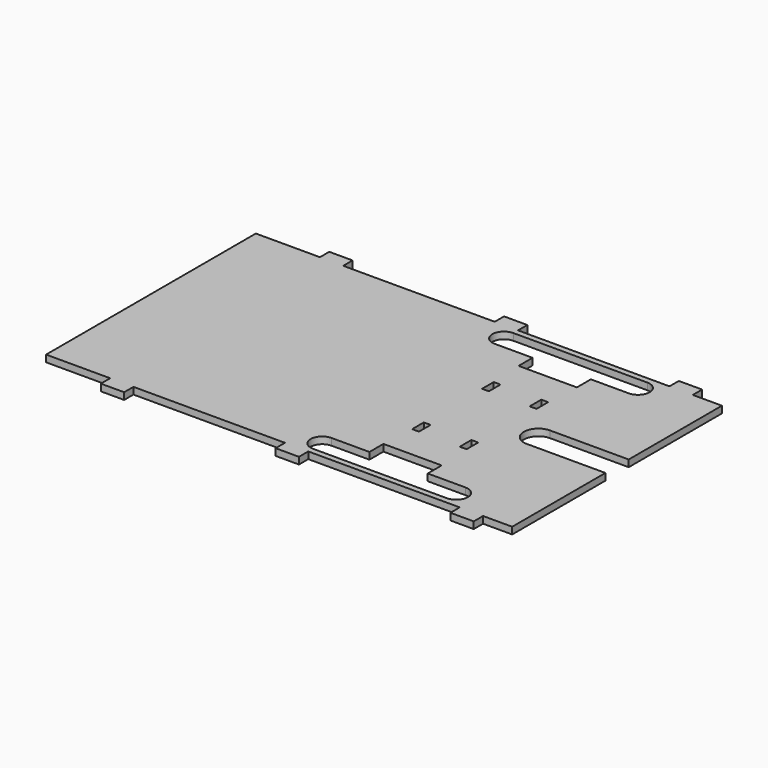
from build123d import *

# Parameters (mm, degrees)
F0_W     = 10.16
F0_H     = 5.08
F1_DEPTH = 2.9718
F2_W     = 12.7
F2_H     = 7.62
F2_W_2   = 2.9718
F2_H_2   = 6.35
F3_DEPTH = 2.9728


with BuildPart() as f1:
    # F0 (on Top) → F1 (new body)
    with BuildSketch(Plane.XY):
        Polygon((88.9, -57.15), (101.6, -57.15), (101.6, 57.15), (88.9, 57.15), (78.74, 57.15), (12.7, 57.15), (2.54, 57.15), (-63.5, 57.15), (-73.66, 57.15), (-101.6, 57.15), (-101.6, -57.15), (-73.66, -57.15), (-63.5, -57.15), (2.54, -57.15), (12.7, -57.15), (78.74, -57.15), align=None)
        with Locations((83.82, -59.69)):
            Rectangle(F0_W, F0_H)
        with Locations((83.82, 59.69)):
            Rectangle(F0_W, F0_H)
        with Locations((7.62, -59.69)):
            Rectangle(F0_W, F0_H)
        with Locations((7.62, 59.69)):
            Rectangle(F0_W, F0_H)
        with Locations((-68.58, -59.69)):
            Rectangle(F0_W, F0_H)
        with Locations((-68.58, 59.69)):
            Rectangle(F0_W, F0_H)
    extrude(amount=F1_DEPTH)

    # F2 (on face) → F3 (cut, through all)
    with BuildSketch(Plane.XY.offset(2.9718)):
        with BuildLine():
            ThreePointArc((12.7, -44.45), (7.62, -49.53), (12.7, -54.61))
            Line((12.7, -54.61), (71.12, -54.61))
            ThreePointArc((71.12, -54.61), (76.2, -49.53), (71.12, -44.45))
            Line((71.12, -44.45), (54.61, -44.45))
            Line((54.61, -44.45), (41.91, -44.45))
            Line((41.91, -44.45), (29.21, -44.45))
            Line((29.21, -44.45), (12.7, -44.45))
        make_face()
        with Locations((35.56, -40.64)):
            Rectangle(F2_W, F2_H)
        with Locations((48.26, -40.64)):
            Rectangle(F2_W, F2_H)
        with BuildLine():
            ThreePointArc((12.7, 54.61), (7.62, 49.53), (12.7, 44.45))
            Line((12.7, 44.45), (29.21, 44.45))
            Line((29.21, 44.45), (54.61, 44.45))
            Line((54.61, 44.45), (71.12, 44.45))
            ThreePointArc((71.12, 44.45), (76.2, 49.53), (71.12, 54.61))
            Line((71.12, 54.61), (12.7, 54.61))
        make_face()
        Polygon((54.61, 44.45), (29.21, 44.45), (29.21, 36.83), (41.91, 36.83), (54.61, 36.83), align=None)
        with Locations((31.5341, -19.05)):
            Rectangle(F2_W_2, F2_H_2)
        with Locations((52.2859, -19.05)):
            Rectangle(F2_W_2, F2_H_2)
        with Locations((31.5341, 19.05)):
            Rectangle(F2_W_2, F2_H_2)
        with Locations((52.2859, 19.05)):
            Rectangle(F2_W_2, F2_H_2)
        with BuildLine():
            ThreePointArc((67.31, 6.35), (60.96, 0), (67.31, -6.35))
            Line((67.31, -6.35), (92.71, -6.35))
            Line((92.71, -6.35), (101.6, -6.35))
            Line((101.6, -6.35), (101.6, 6.35))
            Line((101.6, 6.35), (92.71, 6.35))
            Line((92.71, 6.35), (67.31, 6.35))
        make_face()
    extrude(amount=-F3_DEPTH, mode=Mode.SUBTRACT)


solid = f1.part
